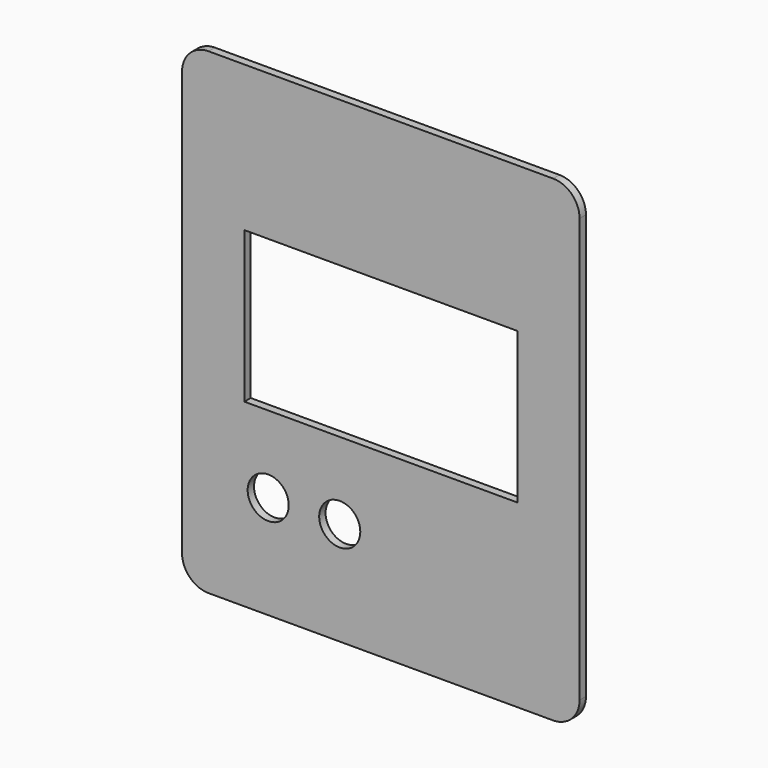
from build123d import *

# Parameters (mm, degrees)
F1_DEPTH = 3
F2_W     = 103
F2_H     = 57
F3_DEPTH = 3.001
F4_R     = 7.75
F5_DEPTH = 25


with BuildPart() as f1:
    # F0 (on Front) → F1 (new body)
    with BuildSketch(Plane.XZ):
        with BuildLine():
            ThreePointArc((0, 10), (2.928932, 2.928932), (10, 0))
            Line((10, 0), (140, 0))
            ThreePointArc((140, 0), (147.071068, 2.928932), (150, 10))
            Line((150, 10), (150, 170))
            ThreePointArc((150, 170), (147.071068, 177.071068), (140, 180))
            Line((140, 180), (10, 180))
            ThreePointArc((10, 180), (2.928932, 177.071068), (0, 170))
            Line((0, 170), (0, 10))
        make_face()
    extrude(amount=F1_DEPTH)

    # F2 (on face) + F1_face (on face) → F3 (cut, through all)
    with BuildSketch(Plane.XZ):
        with Locations((75, 96.5)):
            Rectangle(F2_W, F2_H)
    with BuildSketch(Plane(origin=(75, -3, 90), x_dir=(1, 0, 0), z_dir=(0, -1, 0))):
        with BuildLine():
            Line((-75, 80), (-75, -80))
            ThreePointArc((-75, -80), (-72.071068, -87.071068), (-65, -90))
            Line((-65, -90), (65, -90))
            ThreePointArc((65, -90), (72.071068, -87.071068), (75, -80))
            Line((75, -80), (75, 80))
            ThreePointArc((75, 80), (72.071068, 87.071068), (65, 90))
            Line((65, 90), (-65, 90))
            ThreePointArc((-65, 90), (-72.071068, 87.071068), (-75, 80))
        make_face()
    extrude(amount=F3_DEPTH, mode=Mode.SUBTRACT)

    # F4 (on face) → F5 (cut)
    with BuildSketch(Plane.XZ.offset(3)):
        with Locations((32.5, 39)):
            Circle(F4_R)
        with Locations((59.5, 39)):
            Circle(F4_R)
    extrude(amount=-F5_DEPTH, mode=Mode.SUBTRACT)


solid = f1.part
